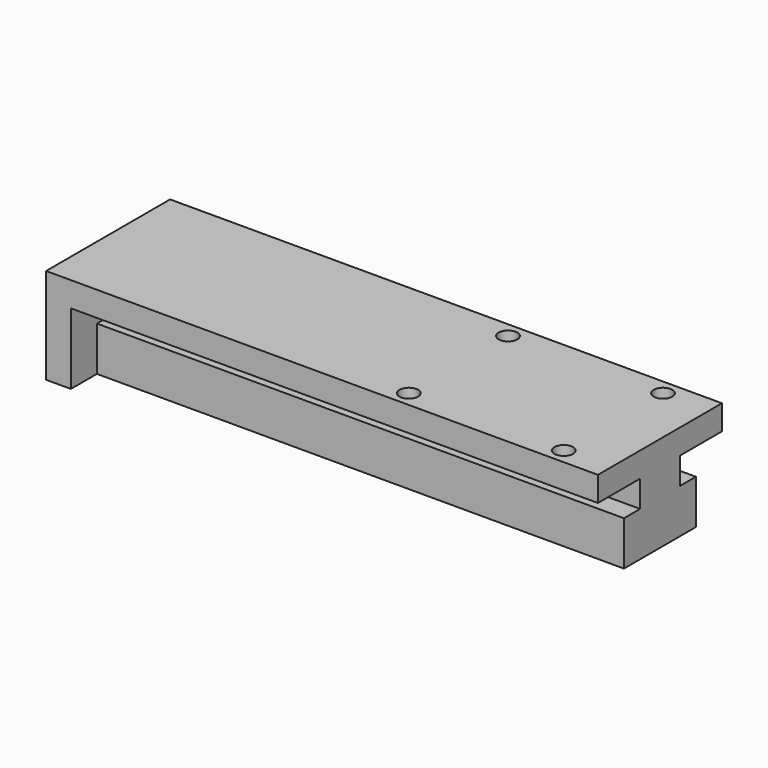
from build123d import *

# Parameters (mm, degrees)
PAD120_DEPTH    = 85
SKETCH241_R     = 1.5
POCKET086_DEPTH = 15.451
SKETCH242_W     = 25
SKETCH242_H     = 15.45
PAD121_DEPTH    = 4


with BuildPart() as part:
    # Sketch240 → Pad120 (new body)
    with BuildSketch(Plane.YZ):
        Polygon((-5.25, 11.45), (-5.25, 15.45), (19.75, 15.45), (19.75, 11.45), (11.25, 11.45), (11.25, 7.15), (14.5, 7.15), (14.5, 0), (0, 0), (0, 7.15), (3.25, 7.15), (3.25, 11.45), align=None)
    extrude(amount=PAD120_DEPTH)

    # Sketch241 (on Face2 of Pad120) → Pocket086 (cut, through all)
    with BuildSketch(Plane(origin=(0, 0, 15.45), x_dir=(0, -1, 0), z_dir=(0, 0, 1))):
        with Locations((-17.25, 77.5)):
            Circle(SKETCH241_R)
        with Locations((-17.25, 52.5)):
            Circle(SKETCH241_R)
        with Locations((2.75, 52.5)):
            Circle(SKETCH241_R)
        with Locations((2.75, 77.5)):
            Circle(SKETCH241_R)
    extrude(amount=-POCKET086_DEPTH, mode=Mode.SUBTRACT)

    # Sketch242 (on Face4 of Pocket086) → Pad121 (join)
    with BuildSketch(Plane(origin=(0, 0, 0), x_dir=(0, 1, 0), z_dir=(-1, 0, 0))):
        with Locations((7.25, -7.725)):
            Rectangle(SKETCH242_W, SKETCH242_H)
    extrude(amount=PAD121_DEPTH)


with BuildPart() as part_1:
    # Body140 placement: moved
    add(part.part.moved(Location((-115, 122.3, 7))))


solid = part_1.part
